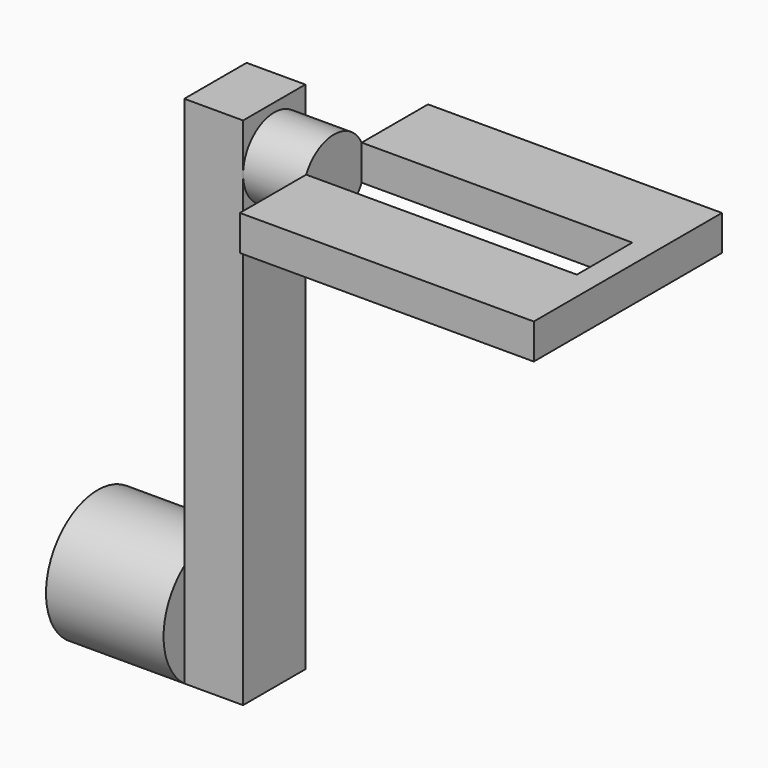
from build123d import *

# Parameters (mm, degrees)
F0_R      = 27.5
F1_DEPTH  = 50
F3_DEPTH  = 25
F4_W      = 25
F4_H      = 33.110834
F5_DEPTH  = 175
F7_DEPTH  = 25.4
F9_DEPTH  = 125
F10_W     = 115.094
F10_H     = 29.507754
F11_DEPTH = 25.4


with BuildPart() as f1:
    # F0 (on Right) → F1 (new body)
    with BuildSketch(Plane.YZ):
        with Locations((-5.465579, 22.014137)):
            Circle(F0_R)
    extrude(amount=F1_DEPTH)

    # F2 (on face) → F3 (join)
    with BuildSketch(Plane.YZ.offset(50)):
        with BuildLine():
            ThreePointArc((11.164121, 0.112013), (11.089932, 0.055881), (11.015554, 0))
            Line((11.015554, 0), (11.164121, 0))
            Line((11.164121, 0), (11.164121, 0.112013))
        make_face()
        with BuildLine():
            Line((-21.946713, 43.916262), (-21.946713, 0))
            Line((-21.946713, 0), (11.015554, 0))
            ThreePointArc((11.015554, 0), (11.089932, 0.055881), (11.164121, 0.112013))
            Line((11.164121, 0.112013), (11.164121, 43.916262))
            Line((11.164121, 43.916262), (-21.946713, 43.916262))
        make_face()
    extrude(amount=F3_DEPTH)

    # F4 (on face) → F5 (join)
    with BuildSketch(Plane.XY.offset(43.916262)):
        with Locations((62.5, -5.391296)):
            Rectangle(F4_W, F4_H)
    extrude(amount=F5_DEPTH)

    # F6 (on face) → F7 (join)
    with BuildSketch(Plane.YZ.offset(75)):
        with BuildLine():
            ThreePointArc((-21.946713, 198.658526), (-5.391296, 182.103109), (11.164121, 198.658526))
            ThreePointArc((11.164121, 198.658526), (-5.391296, 215.213943), (-21.946713, 198.658526))
        make_face()
    extrude(amount=F7_DEPTH)

    # F8 (on face) → F9 (join)
    with BuildSketch(Plane.YZ.offset(100.4)):
        with BuildLine():
            Line((-20.150423, 206.158526), (-55.391296, 206.158526))
            Line((-55.391296, 206.158526), (-55.391296, 191.158526))
            Line((-55.391296, 191.158526), (-20.150423, 191.158526))
            ThreePointArc((-20.150423, 191.158526), (-21.946713, 198.658526), (-20.150423, 206.158526))
        make_face()
        with BuildLine():
            Line((44.608704, 206.158526), (9.367831, 206.158526))
            ThreePointArc((9.367831, 206.158526), (10.708787, 202.514581), (11.164121, 198.658526))
            ThreePointArc((11.164121, 198.658526), (10.708787, 194.80247), (9.367831, 191.158526))
            Line((9.367831, 191.158526), (44.608704, 191.158526))
            Line((44.608704, 191.158526), (44.608704, 206.158526))
        make_face()
        with BuildLine():
            Line((9.367831, 206.158526), (-20.150423, 206.158526))
            ThreePointArc((-20.150423, 206.158526), (-21.946713, 198.658526), (-20.150423, 191.158526))
            Line((-20.150423, 191.158526), (9.367831, 191.158526))
            ThreePointArc((9.367831, 191.158526), (10.708787, 194.80247), (11.164121, 198.658526))
            ThreePointArc((11.164121, 198.658526), (10.708787, 202.514581), (9.367831, 206.158526))
        make_face()
    extrude(amount=F9_DEPTH)

    # F10 (on face) → F11 (cut)
    with BuildSketch(Plane.XY.offset(206.158526)):
        with Locations((157.947, -5.386046)):
            Rectangle(F10_W, F10_H)
    extrude(amount=-F11_DEPTH, mode=Mode.SUBTRACT)


solid = f1.part
